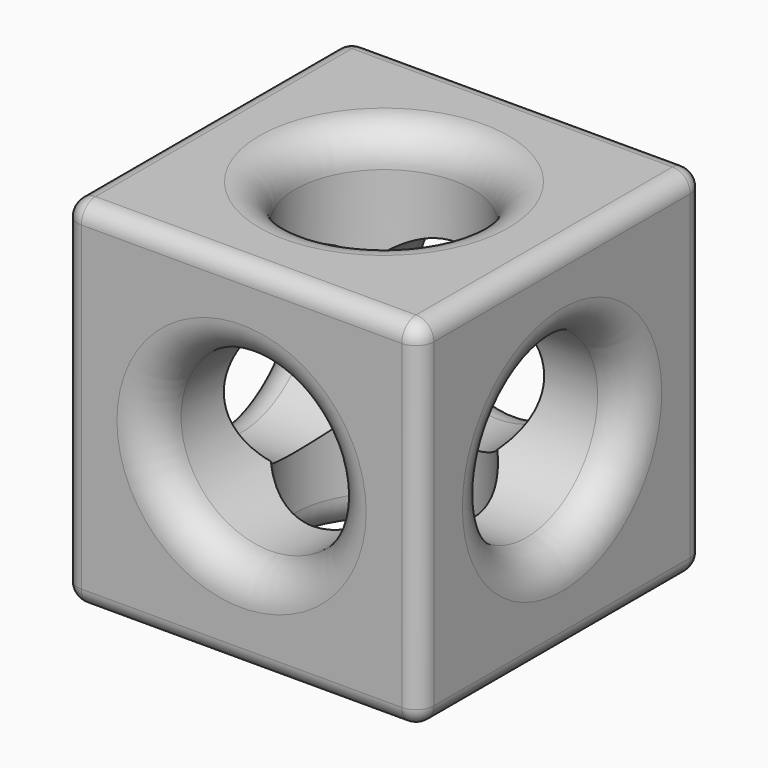
from build123d import *

# Parameters (mm, degrees)
F0_W     = 100
F0_H     = 100
F1_DEPTH = 50
F2_R     = 25
F3_DEPTH = 157
F4_R     = 25
F5_DEPTH = 100
F6_R     = 25
F7_DEPTH = 100
F8_R     = 10
F9_R     = 5


with BuildPart() as f1:
    # F0 (on Front) → F1 (new body, symmetric)
    with BuildSketch(Plane.XZ):
        Rectangle(F0_W, F0_H)
    extrude(amount=F1_DEPTH, both=True)

    # F2 (on face) → F3 (cut)
    with BuildSketch(Plane.XZ.offset(50)):
        Circle(F2_R)
    extrude(amount=-F3_DEPTH, mode=Mode.SUBTRACT)

    # F4 (on face) → F5 (cut)
    with BuildSketch(Plane.YZ.offset(50)):
        Circle(F4_R)
    extrude(amount=-F5_DEPTH, mode=Mode.SUBTRACT)

    # F6 (on face) → F7 (cut)
    with BuildSketch(Plane.XY.offset(50)):
        Circle(F6_R)
    extrude(amount=-F7_DEPTH, mode=Mode.SUBTRACT)

    # F8
    f8_edges = [f1.edges().sort_by_distance(p)[0] for p in [
        (-25, 0, 50),
        (50, -25, 0),
        (-25, 50, 0),
        (-25, 0, -50),
        (-25, -50, 0),
        (-50, -25, 0),
    ]]
    fillet(f8_edges, radius=F8_R)

    # F9
    f9_edges = [f1.edges().sort_by_distance(p)[0] for p in [
        (0, 50, 50),
        (50, 0, 50),
        (50, 50, 0),
        (-50, 0, 50),
        (-50, 50, 0),
        (0, 50, -50),
        (-50, 0, -50),
        (-50, -50, 0),
        (0, -50, 50),
        (50, 0, -50),
        (50, -50, 0),
        (0, -50, -50),
    ]]
    fillet(f9_edges, radius=F9_R)


solid = f1.part
